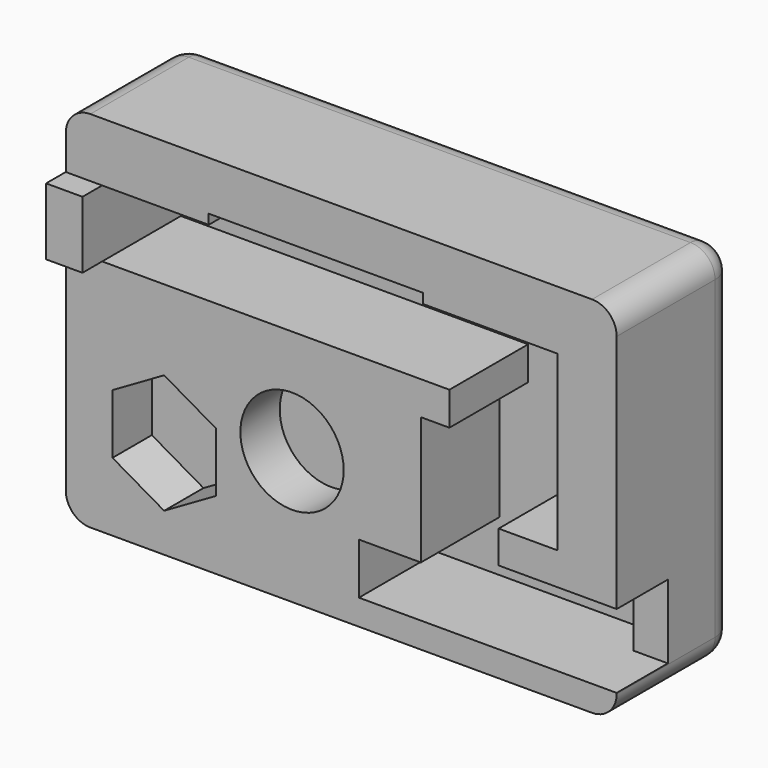
from build123d import *

# Parameters (mm, degrees)
F0_W      = 56
F0_H      = 37
F1_DEPTH  = 15
F3_DEPTH  = 10
F4_W      = 3.7
F4_H      = 6.8
F5_DEPTH  = 2.5
F7_DEPTH  = 5
F8_W      = 3.5
F8_H      = 7.5
F9_DEPTH  = 3.5
F10_R     = 2.5
F11_R     = 5.25
F12_DEPTH = 5


with BuildPart() as f1:
    # F0 (on Front) → F1 (new body)
    with BuildSketch(Plane.XZ):
        Rectangle(F0_W, F0_H)
    extrude(amount=-F1_DEPTH)

    # F2 (on face) → F3 (cut)
    with BuildSketch(Plane.XZ):
        Polygon((-13.468998, 12.5), (-24.3, 12.5), (-24.3, 5.7), (11, 5.7), (11, 2.3), (8.1, 2.3), (8.1, -10.7), (1.8, -10.7), (1.8, -15.9), (28, -15.9), (28, -8.4), (16, -8.4), (16, -5.1), (22, -5.1), (22, 12.5), (8.290843, 12.5), (8.290843, 13.5), (-9.038461, 13.5), (-13.468998, 13.5), align=None)
    extrude(amount=-F3_DEPTH, mode=Mode.SUBTRACT)

    # F4 (on face) → F5 (join)
    with BuildSketch(Plane.XZ):
        with Locations((-26.15, 9.1)):
            Rectangle(F4_W, F4_H)
    extrude(amount=F5_DEPTH)

    # F6 (on face) → F7 (cut)
    with BuildSketch(Plane.XZ):
        Polygon((-23.25, -5.468911), (-23.25, -11.531089), (-18, -14.562178), (-12.75, -11.531089), (-12.75, -5.468911), (-18, -2.437822), align=None)
    extrude(amount=-F7_DEPTH, mode=Mode.SUBTRACT)

    # F8 (on face) → F9 (join)
    with BuildSketch(Plane.XZ.offset(-10)):
        with Locations((26.25, -12.15)):
            Rectangle(F8_W, F8_H)
    extrude(amount=F9_DEPTH)

    # F10
    f10_edges = [f1.edges().sort_by_distance(p)[0] for p in [
        (28, 7.5, -18.5),
        (28, 7.5, 18.5),
        (-28, 7.5, 18.5),
        (-28, 7.5, -18.5),
        (28, 15, 0),
        (0, 15, 18.5),
        (0, 15, -18.5),
        (-28, 15, 0),
    ]]
    fillet(f10_edges, radius=F10_R)

    # F11 (on face) → F12 (cut)
    with BuildSketch(Plane.XZ):
        with Locations((-5, -5)):
            Circle(F11_R)
    extrude(amount=-F12_DEPTH, mode=Mode.SUBTRACT)


solid = f1.part
